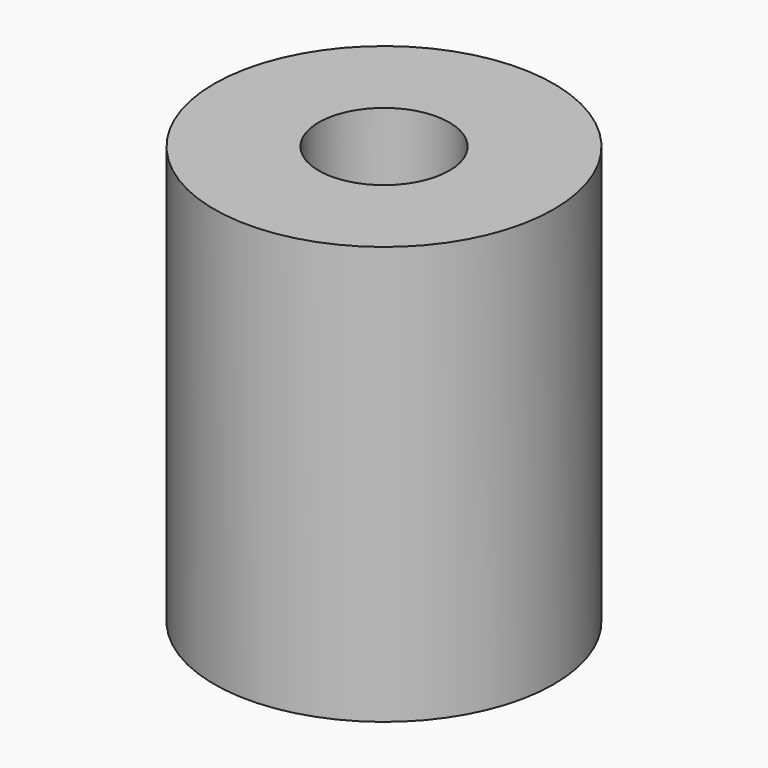
from build123d import *

# Parameters (mm, degrees)
F0_R     = 6.5
F0_R_2   = 2.5
F1_DEPTH = 16
F2_DEPTH = 5.4


with BuildPart() as f1:
    # F0 (on Top) → F1 (new body)
    with BuildSketch(Plane.XY):
        Circle(F0_R)
        Polygon((-4.041452, 0), (-2.020726, 3.5), (2.020726, 3.5), (4.041452, 0), (2.020726, -3.5), (-2.020726, -3.5), align=None, mode=Mode.SUBTRACT)
        Polygon((2.020726, 3.5), (-2.020726, 3.5), (-4.041452, 0), (-2.020726, -3.5), (2.020726, -3.5), (4.041452, 0), align=None)
        Circle(F0_R_2, mode=Mode.SUBTRACT)
    extrude(amount=F1_DEPTH)

    # F0 (on Top) → F2 (cut)
    with BuildSketch(Plane.XY):
        Polygon((2.020726, 3.5), (-2.020726, 3.5), (-4.041452, 0), (-2.020726, -3.5), (2.020726, -3.5), (4.041452, 0), align=None)
        Circle(F0_R_2, mode=Mode.SUBTRACT)
    extrude(amount=F2_DEPTH, mode=Mode.SUBTRACT)


solid = f1.part
